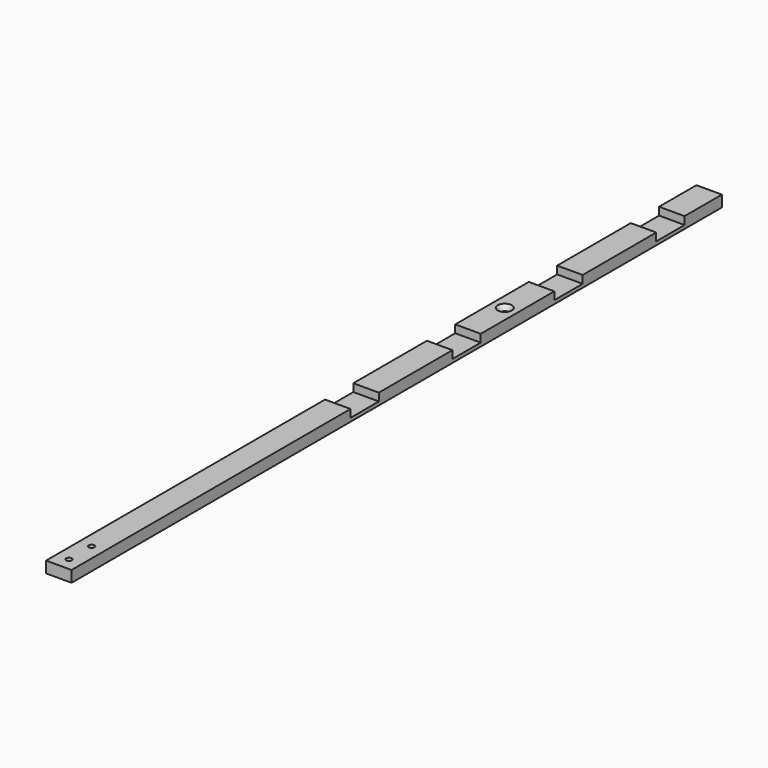
from build123d import *

# Parameters (mm, degrees)
SKETCH044_W              = 574.323184
SKETCH044_H              = 18
PAD022_DEPTH             = 8
SKETCH049_R              = 2
POCKET031_DEPTH          = 8.001
CHAMFER017_SIZE          = 3
SKETCH050_W              = 25
SKETCH050_H              = 18
POCKET032_DEPTH          = 5.5
SKETCH070_R              = 2
POCKET045_DEPTH          = 8.001
CHAMFER029_SIZE          = 3
BODY016_PLACEMENT_ANGLE  = 180
CLONE001_PLACEMENT_ANGLE = 90


with BuildPart() as part:
    # Sketch044 → Pad022 (new body)
    with BuildSketch(Plane.XY):
        with Locations((57.838408, -99)):
            Rectangle(SKETCH044_W, SKETCH044_H)
    extrude(amount=PAD022_DEPTH)

    # Sketch049 (on Face6 of Pad022) → Pocket031 (cut, through all)
    with BuildSketch(Plane.XY.offset(8)):
        with Locations((316, -99)):
            Circle(SKETCH049_R)
        with Locations((336, -99)):
            Circle(SKETCH049_R)
    extrude(amount=-POCKET031_DEPTH, mode=Mode.SUBTRACT)

    # Chamfer017
    chamfer017_edges = [part.edges().sort_by_distance(p)[0] for p in [
        (334, -99, 8),
        (314, -99, 8),
    ]]
    chamfer(chamfer017_edges, length=CHAMFER017_SIZE)

    # Sketch050 (on Face9 of Chamfer017) → Pocket032 (cut)
    with BuildSketch(Plane(origin=(0, 0, 0), x_dir=(1, 0, 0), z_dir=(0, 0, -1))):
        with Locations((-183.823184, 99)):
            Rectangle(SKETCH050_W, SKETCH050_H)
        with Locations((-93.823184, 99)):
            Rectangle(SKETCH050_W, SKETCH050_H)
        with Locations((-3.823184, 99)):
            Rectangle(SKETCH050_W, SKETCH050_H)
        with Locations((86.176816, 99)):
            Rectangle(SKETCH050_W, SKETCH050_H)
    extrude(amount=-POCKET032_DEPTH, mode=Mode.SUBTRACT)

    # Sketch070 (on Face1 of Pocket032) → Pocket045 (cut, through all)
    with BuildSketch(Plane.XY.offset(8)):
        with Locations((-48.823184, -99)):
            Circle(SKETCH070_R)
    extrude(amount=-POCKET045_DEPTH, mode=Mode.SUBTRACT)

    # Chamfer029
    chamfer029_edges = [part.edges().sort_by_distance(p)[0] for p in [
        (-50.823184, -99, 0),
    ]]
    chamfer(chamfer029_edges, length=CHAMFER029_SIZE)


with BuildPart() as part_1:
    # Body016 placement: moved
    add(part.part.moved(Location((0, 0, 15.5))).rotate(Axis((0, 0, 15.5), (1, 0, 0)), BODY016_PLACEMENT_ANGLE))


with BuildPart() as part_2:
    # Clone001 placement: moved
    add(part_1.part.moved(Location((-90, 346, -15.5))).rotate(Axis((-90, 346, -15.5), (0, 0, -1)), CLONE001_PLACEMENT_ANGLE))


solid = part_2.part
